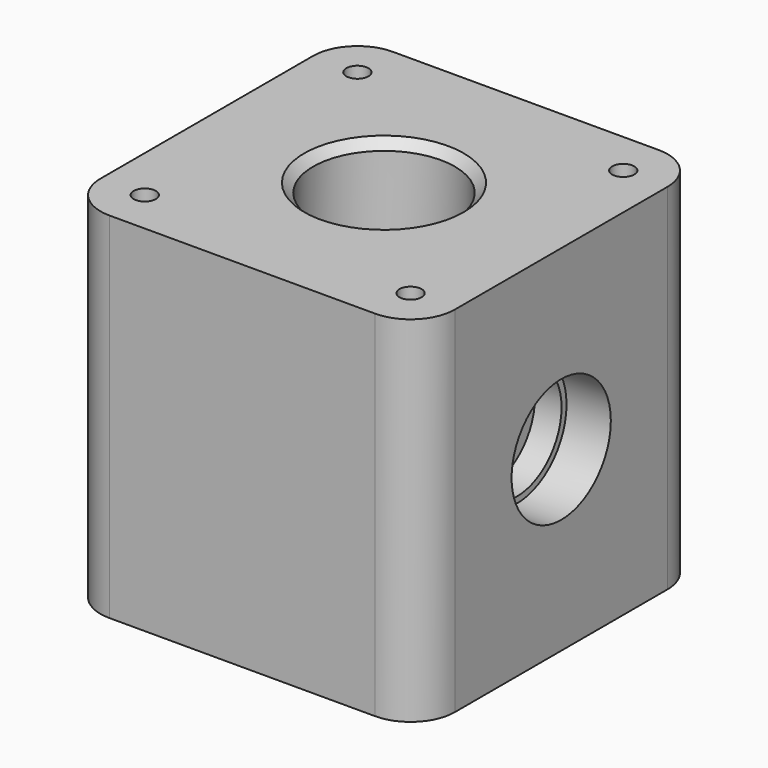
from build123d import *

# Parameters (mm, degrees)
F0_W      = 40
F0_H      = 40
F0_R      = 8
F1_DEPTH  = 40
F2_W      = 21
F2_H      = 21
F3_DEPTH  = 30
F5_R      = 5
F6_DEPTH  = 11
F7_R      = 6.3
F8_DEPTH  = 8
F9_R      = 7
F10_DEPTH = 5
F11_R     = 5
F12_SIZE  = 1
F13_R     = 1.25
F14_DEPTH = 10


with BuildPart() as f1:
    # F0 (on Top) → F1 (new body)
    with BuildSketch(Plane.XY):
        Rectangle(F0_W, F0_H)
        Circle(F0_R, mode=Mode.SUBTRACT)
    extrude(amount=F1_DEPTH)


with BuildPart() as f3:
    # F2 (on Top) → F3 (new body)
    with BuildSketch(Plane.XY):
        Rectangle(F2_W, F2_H)
    extrude(amount=F3_DEPTH)


with BuildPart() as f1_1:
    add(f1.part)

    # F4: cut F3
    add(f3.part, mode=Mode.SUBTRACT)

    # F5 (on face) → F6 (cut)
    with BuildSketch(Plane.YZ.offset(20)):
        with Locations((0, 20)):
            Circle(F5_R)
    extrude(amount=-F6_DEPTH, mode=Mode.SUBTRACT)

    # F7 (on face) → F8 (cut)
    with BuildSketch(Plane.YZ.offset(20)):
        with Locations((0, 20)):
            Circle(F7_R)
    extrude(amount=-F8_DEPTH, mode=Mode.SUBTRACT)

    # F9 (on face) → F10 (cut)
    with BuildSketch(Plane.YZ.offset(20)):
        with Locations((0, 20)):
            Circle(F9_R)
    extrude(amount=-F10_DEPTH, mode=Mode.SUBTRACT)

    # F11
    f11_edges = [f1_1.edges().sort_by_distance(p)[0] for p in [
        (20, 20, 20),
        (-20, 20, 20),
        (-20, -20, 20),
        (20, -20, 20),
    ]]
    fillet(f11_edges, radius=F11_R)

    # F12
    f12_edges = [f1_1.edges().sort_by_distance(p)[0] for p in [
        (-8, 0, 40),
    ]]
    chamfer(f12_edges, length=F12_SIZE)

    # F13 (on face) → F14 (cut)
    with BuildSketch(Plane.XY.offset(40)):
        with Locations((-15, 15)):
            Circle(F13_R)
        with Locations((-15, -15)):
            Circle(F13_R)
        with Locations((15, -15)):
            Circle(F13_R)
        with Locations((15, 15)):
            Circle(F13_R)
    extrude(amount=-F14_DEPTH, mode=Mode.SUBTRACT)


solid = f1_1.part
